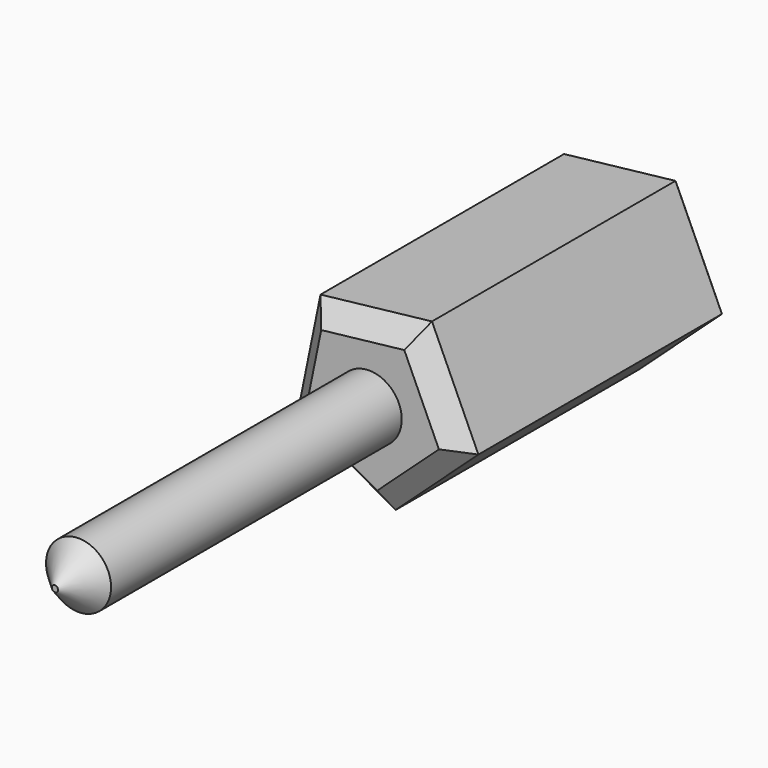
from build123d import *

# Parameters (mm, degrees)
F1_DEPTH = 88.9
F2_SIZE  = 5.08
F3_SIZE  = 5.08
F4_SIZE  = 5.08
F5_SIZE  = 5.08
F6_SIZE  = 5.08
F7_SIZE  = 5.08
F8_R     = 8.414365
F9_DEPTH = 101.6
F10_SIZE = 7.62


with BuildPart() as f1:
    # F0 (on Front) → F1 (new body)
    with BuildSketch(Plane.XZ):
        Polygon((-22.467206, -10.215149), (2.772436, -24.524237), (24.180665, -4.941663), (12.172037, 21.470121), (-16.657933, 18.210928), align=None)
    extrude(amount=F1_DEPTH)

    # F2
    f2_edges = [f1.edges().sort_by_distance(p)[0] for p in [
        (-9.847385, -88.9, -17.369693),
    ]]
    chamfer(f2_edges, length=F2_SIZE)

    # F3
    f3_edges = [f1.edges().sort_by_distance(p)[0] for p in [
        (-19.027823, -88.9, 6.614521),
    ]]
    chamfer(f3_edges, length=F3_SIZE)

    # F4
    f4_edges = [f1.edges().sort_by_distance(p)[0] for p in [
        (0.410862, -88.9, 20.140535),
    ]]
    chamfer(f4_edges, length=F4_SIZE)

    # F5
    f5_edges = [f1.edges().sort_by_distance(p)[0] for p in [
        (19.28175, -88.9, 5.833014),
    ]]
    chamfer(f5_edges, length=F5_SIZE)

    # F6
    f6_edges = [f1.edges().sort_by_distance(p)[0] for p in [
        (13.476551, -88.9, -14.73295),
    ]]
    chamfer(f6_edges, length=F6_SIZE)

    # F7
    f7_edges = [f1.edges().sort_by_distance(p)[0] for p in [
        (-19.562569, 0, 3.997889),
        (-2.242948, 0, 19.840525),
        (18.176351, 0, 8.264229),
        (13.476551, 0, -14.73295),
        (-9.847385, 0, -17.369693),
    ]]
    chamfer(f7_edges, length=F7_SIZE)

    # F8 (on face) → F9 (join)
    with BuildSketch(Plane.XZ.offset(88.9)):
        Circle(F8_R)
    extrude(amount=F9_DEPTH)

    # F10
    f10_edges = [f1.edges().sort_by_distance(p)[0] for p in [
        (-8.414365, -190.5, 0),
    ]]
    chamfer(f10_edges, length=F10_SIZE)


solid = f1.part
